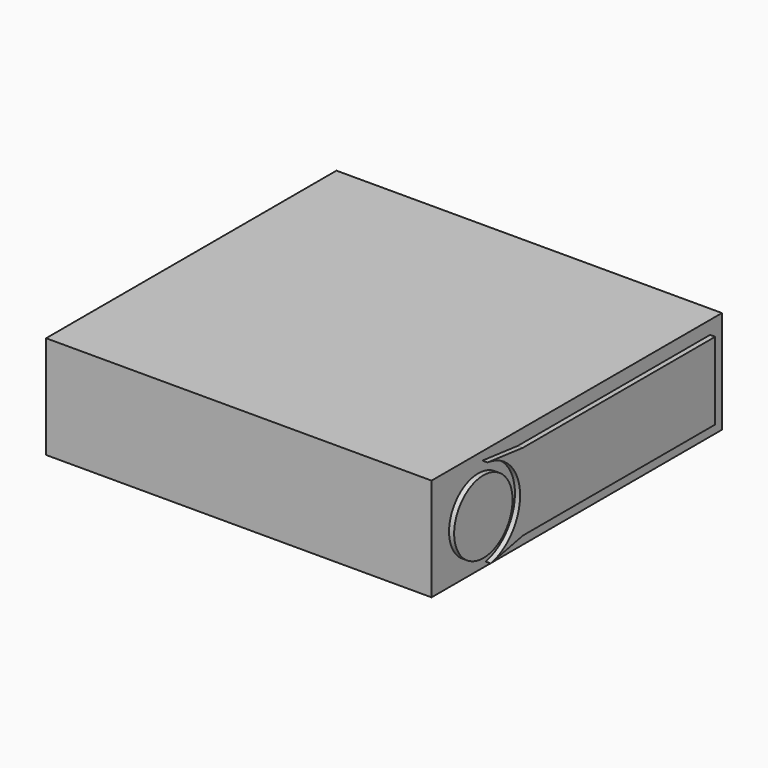
from build123d import *

# Parameters (mm, degrees)
F0_W     = 190.5
F0_H     = 50.8
F1_DEPTH = 179.3748
F2_R     = 18.027204
F3_DEPTH = 2.54
F5_DEPTH = 2.54


with BuildPart() as f1:
    # F0 (on Front) → F1 (new body)
    with BuildSketch(Plane.XZ):
        with Locations((95.25, 25.4)):
            Rectangle(F0_W, F0_H)
    extrude(amount=-F1_DEPTH)

    # F2 (on face) → F3 (join)
    with BuildSketch(Plane.YZ.offset(190.5)):
        with Locations((28.827632, 24.215335)):
            Circle(F2_R)
    extrude(amount=F3_DEPTH)

    # F4 (on face) → F5 (join)
    with BuildSketch(Plane.YZ.offset(190.5)):
        with BuildLine():
            ThreePointArc((31.39125, 46.757364), (51.491809, 25.24017), (33.41525, 1.996672))
            Line((33.41525, 1.996672), (53.203531, 6.082475))
            Line((53.203531, 6.082475), (172.030688, 6.082475))
            Line((172.030688, 6.082475), (172.030688, 44.277191))
            Line((172.030688, 44.277191), (53.199542, 44.277191))
            Line((53.199542, 44.277191), (31.39125, 46.757364))
        make_face()
    extrude(amount=F5_DEPTH)


solid = f1.part
